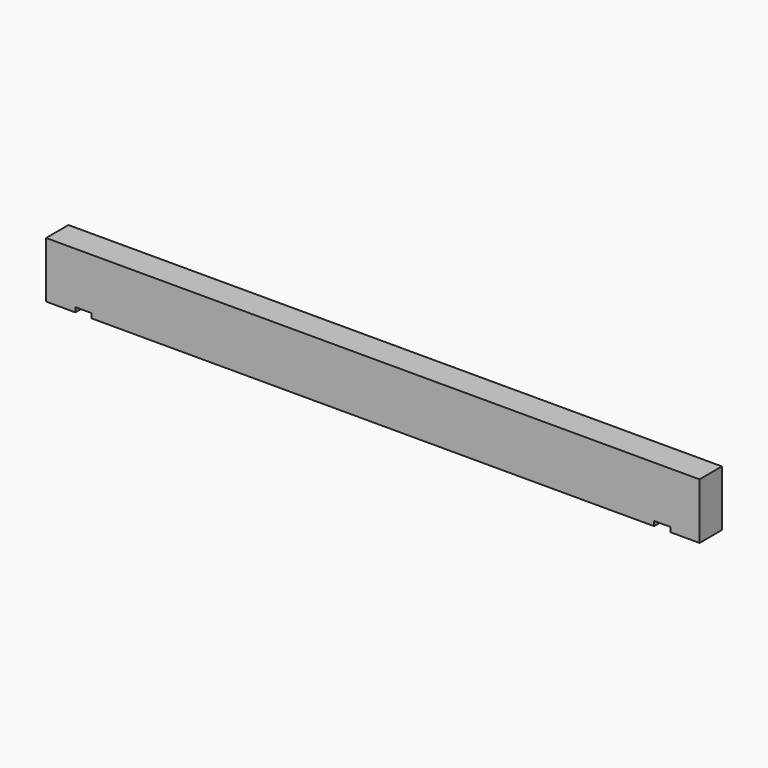
from build123d import *

# Parameters (mm, degrees)
F0_W     = 38.1
F0_H     = 76.2
F1_DEPTH = 444.5
F2_W     = 21.9964
F2_H     = 38.1
F3_DEPTH = 6.35


with BuildPart() as f1:
    # F0 (on Right) → F1 (new body, symmetric)
    with BuildSketch(Plane.YZ):
        Rectangle(F0_W, F0_H)
    extrude(amount=F1_DEPTH, both=True)

    # F2 (on face) → F3 (cut)
    with BuildSketch(Plane(origin=(0, 0, -38.1), x_dir=(1, 0, 0), z_dir=(0, 0, -1))):
        with Locations((393.7, 0)):
            Rectangle(F2_W, F2_H)
        with Locations((-393.7, 0)):
            Rectangle(F2_W, F2_H)
    extrude(amount=-F3_DEPTH, mode=Mode.SUBTRACT)


solid = f1.part
